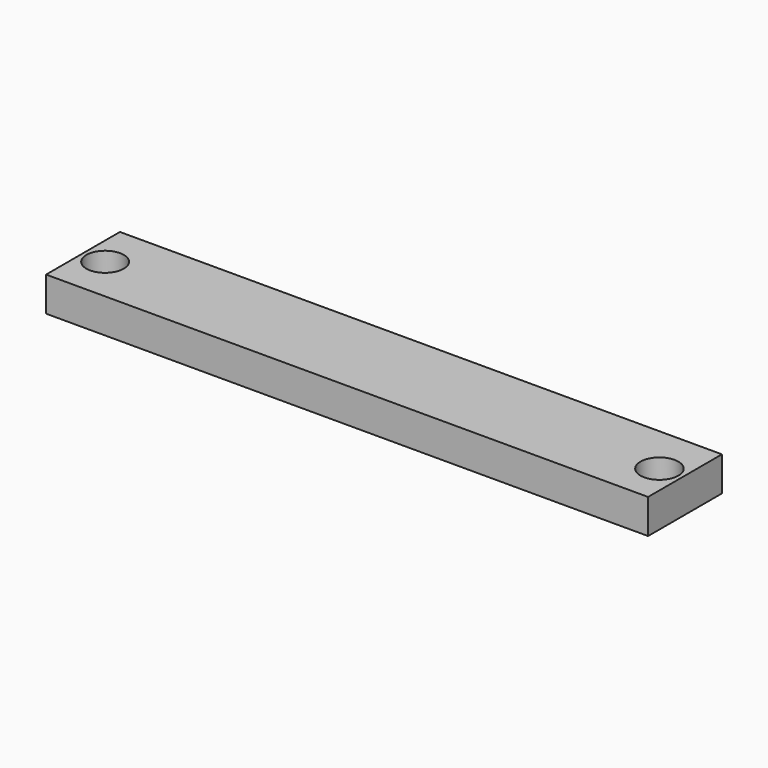
from build123d import *

# Parameters (mm, degrees)
F0_W     = 165.6668949872
F0_H     = 9.4798584469
F1_DEPTH = 25.4
F2_R     = 5.1477874533
F3_DEPTH = 25.4
F4_R     = 5.221731546
F5_DEPTH = 25.4


with BuildPart() as f1:
    # F0 (on Front) → F1 (new body)
    with BuildSketch(Plane.XZ):
        with Locations((52.3083051667, 9.6694554668)):
            Rectangle(F0_W, F0_H)
    extrude(amount=F1_DEPTH)

    # F2 (on face) → F3 (cut)
    with BuildSketch(Plane(origin=(0, 0, 4.9295262434), x_dir=(1, 0, 0), z_dir=(0, 0, -1))):
        with Locations((-24.3377815932, 12.8386663273)):
            Circle(F2_R)
    extrude(amount=-F3_DEPTH, mode=Mode.SUBTRACT)

    # F4 (on face) → F5 (cut)
    with BuildSketch(Plane.XY.offset(14.4093846902)):
        with Locations((128.8211345673, -13.5866040364)):
            Circle(F4_R)
    extrude(amount=-F5_DEPTH, mode=Mode.SUBTRACT)


solid = f1.part
